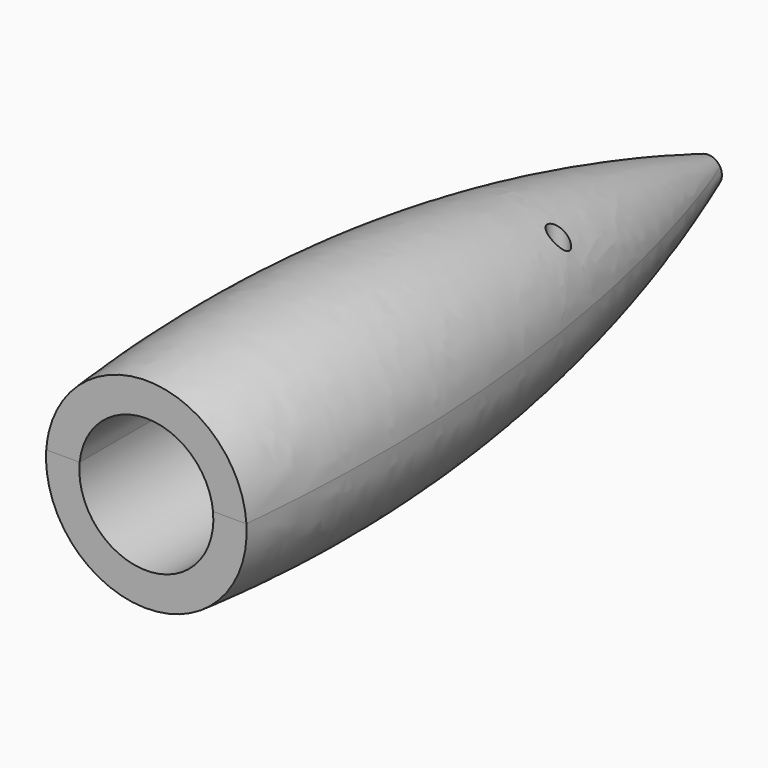
from build123d import *

# Parameters (mm, degrees)
PAD010_DEPTH      = 10
POCKET_DEPTH      = 10.001
SKETCH006_R       = 3.009992
PAD002_DEPTH      = 100
PAD_DEPTH         = 10
SKETCH014_R       = 20.0437
PAD009_DEPTH      = 100
FUSION_ROLL_ANGLE = 90
SKETCH011_R       = 5
PAD007_DEPTH      = 50
SKETCH010_R       = 5
PAD006_DEPTH      = 50
SKETCH008_R       = 13
PAD004_DEPTH      = 15
SKETCH009_R       = 9
PAD005_DEPTH      = 15
SKETCH013_R       = 6
PAD008_DEPTH      = 26
BOX_W             = 50
BOX_H             = 240
BOX_DEPTH         = 100
BOX_PITCH_ANGLE   = -90
SKETCH_R          = 4.120219
SKETCH001_R       = 27
SKETCH002_R       = 30
SKETCH015_R       = 1.5
POCKET001_DEPTH   = 10
SKETCH018_R       = 3
PAD012_DEPTH      = 20
SKETCH016_R       = 1.5
POCKET002_DEPTH   = 653.497334
SKETCH017_R       = 3
PAD011_DEPTH      = 20


with BuildPart() as obj1:
    # InvoluteGear001 → Pad010 (new body)
    with BuildSketch(Plane(origin=(16, 0, 0), x_dir=(1, 0, 0), z_dir=(0, -1, 0))):
        with BuildLine():
            Line((3.786059, -0.923719), (4.81556, -1.173313))
            add(Edge.make_bspline(
                [(4.81556, -1.173313), (4.873385, -1.181675), (5.046346, -1.195856), (5.34323, -1.127243)],
                knots=[0, 0, 0, 0, 1, 1, 1, 1], degree=3))
            add(Edge.make_bspline(
                [(5.34323, -1.127243), (5.693315, -1.042189), (6.183331, -0.841463), (6.742255, -0.380782)],
                knots=[0, 0, 0, 0, 1, 1, 1, 1], degree=3))
            ThreePointArc((6.742255, -0.380782), (6.753004, 0), (6.742255, 0.380782))
            add(Edge.make_bspline(
                [(6.742255, 0.380782), (6.183331, 0.841463), (5.693315, 1.042189), (5.34323, 1.127243)],
                knots=[0, 0, 0, 0, 1, 1, 1, 1], degree=3))
            add(Edge.make_bspline(
                [(5.34323, 1.127243), (5.046346, 1.195856), (4.873385, 1.181675), (4.81556, 1.173313)],
                knots=[0, 0, 0, 0, 1, 1, 1, 1], degree=3))
            Line((4.81556, 1.173313), (3.786059, 0.923719))
            ThreePointArc((3.786059, 0.923719), (3.397937, 0.968687), (3.132738, 1.25562))
            ThreePointArc((3.132738, 1.25562), (3.04077, 1.464358), (2.934913, 1.666407))
            ThreePointArc((2.934913, 1.666407), (2.875929, 2.052647), (3.082762, 2.384131))
            Line((3.082762, 2.384131), (3.919786, 3.033407))
            add(Edge.make_bspline(
                [(3.919786, 3.033407), (3.962376, 3.073404), (4.081304, 3.199788), (4.212764, 3.474681)],
                knots=[0, 0, 0, 0, 1, 1, 1, 1], degree=3))
            add(Edge.make_bspline(
                [(4.212764, 3.474681), (4.364539, 3.801419), (4.513126, 4.309679), (4.501435, 5.033894)],
                knots=[0, 0, 0, 0, 1, 1, 1, 1], degree=3))
            ThreePointArc((4.501435, 5.033894), (4.210429, 5.279711), (3.90602, 5.508721))
            add(Edge.make_bspline(
                [(3.90602, 5.508721), (3.197362, 5.358966), (2.734908, 5.101007), (2.450135, 4.88033)],
                knots=[0, 0, 0, 0, 1, 1, 1, 1], degree=3))
            add(Edge.make_bspline(
                [(2.450135, 4.88033), (2.211387, 4.690996), (2.114635, 4.546928), (2.085119, 4.496505)],
                knots=[0, 0, 0, 0, 1, 1, 1, 1], degree=3))
            Line((2.085119, 4.496505), (1.638377, 3.53599))
            ThreePointArc((1.638377, 3.53599), (1.361229, 3.260581), (0.971547, 3.232139))
            ThreePointArc((0.971547, 3.232139), (0.751008, 3.290382), (0.527039, 3.333595))
            ThreePointArc((0.527039, 3.333595), (0.188288, 3.528297), (0.058082, 3.896681))
            Line((0.058082, 3.896681), (0.072333, 4.95591))
            add(Edge.make_bspline(
                [(0.072333, 4.95591), (0.067617, 5.014146), (0.042956, 5.185927), (-0.09, 5.460099)],
                knots=[0, 0, 0, 0, 1, 1, 1, 1], degree=3))
            add(Edge.make_bspline(
                [(-0.09, 5.460099), (-0.250823, 5.78248), (-0.555555, 6.215545), (-1.129058, 6.657945)],
                knots=[0, 0, 0, 0, 1, 1, 1, 1], degree=3))
            ThreePointArc((-1.129058, 6.657945), (-1.502685, 6.583692), (-1.871528, 6.488481))
            add(Edge.make_bspline(
                [(-1.871528, 6.488481), (-2.196286, 5.841059), (-2.28294, 5.318663), (-2.287961, 4.958429)],
                knots=[0, 0, 0, 0, 1, 1, 1, 1], degree=3))
            add(Edge.make_bspline(
                [(-2.287961, 4.958429), (-2.288791, 4.65372), (-2.236478, 4.488252), (-2.215459, 4.433737)],
                knots=[0, 0, 0, 0, 1, 1, 1, 1], degree=3))
            Line((-2.215459, 4.433737), (-1.743037, 3.485588))
            ThreePointArc((-1.743037, 3.485588), (-1.700512, 3.09719), (-1.921238, 2.774792))
            ThreePointArc((-1.921238, 2.774792), (-2.104278, 2.638681), (-2.277706, 2.490518))
            ThreePointArc((-2.277706, 2.490518), (-2.641138, 2.347067), (-3.010335, 2.474951))
            Line((-3.010335, 2.474951), (-3.829588, 3.146512))
            add(Edge.make_bspline(
                [(-3.829588, 3.146512), (-3.878059, 3.179135), (-4.027738, 3.266957), (-4.324991, 3.333952)],
                knots=[0, 0, 0, 0, 1, 1, 1, 1], degree=3))
            add(Edge.make_bspline(
                [(-4.324991, 3.333952), (-4.677311, 3.409216), (-5.205892, 3.440979), (-5.909347, 3.268428)],
                knots=[0, 0, 0, 0, 1, 1, 1, 1], degree=3))
            ThreePointArc((-5.909347, 3.268428), (-6.084247, 2.930019), (-6.239777, 2.582282))
            add(Edge.make_bspline(
                [(-6.239777, 2.582282), (-5.936086, 1.924715), (-5.581688, 1.531257), (-5.303176, 1.30273)],
                knots=[0, 0, 0, 0, 1, 1, 1, 1], degree=3))
            add(Edge.make_bspline(
                [(-5.303176, 1.30273), (-5.065463, 1.112098), (-4.903478, 1.04983), (-4.847751, 1.032274)],
                knots=[0, 0, 0, 0, 1, 1, 1, 1], degree=3))
            Line((-4.847751, 1.032274), (-3.811908, 0.810467))
            ThreePointArc((-3.811908, 0.810467), (-3.481733, 0.601552), (-3.367292, 0.22797))
            ThreePointArc((-3.367292, 0.22797), (-3.375, 0), (-3.367292, -0.22797))
            ThreePointArc((-3.367292, -0.22797), (-3.481733, -0.601552), (-3.811908, -0.810467))
            Line((-3.811908, -0.810467), (-4.847751, -1.032274))
            add(Edge.make_bspline(
                [(-4.847751, -1.032274), (-4.903478, -1.04983), (-5.065463, -1.112098), (-5.303176, -1.30273)],
                knots=[0, 0, 0, 0, 1, 1, 1, 1], degree=3))
            add(Edge.make_bspline(
                [(-5.303176, -1.30273), (-5.581688, -1.531257), (-5.936086, -1.924715), (-6.239777, -2.582282)],
                knots=[0, 0, 0, 0, 1, 1, 1, 1], degree=3))
            ThreePointArc((-6.239777, -2.582282), (-6.084247, -2.930019), (-5.909347, -3.268428))
            add(Edge.make_bspline(
                [(-5.909347, -3.268428), (-5.205892, -3.440979), (-4.677311, -3.409216), (-4.324991, -3.333952)],
                knots=[0, 0, 0, 0, 1, 1, 1, 1], degree=3))
            add(Edge.make_bspline(
                [(-4.324991, -3.333952), (-4.027738, -3.266957), (-3.878059, -3.179135), (-3.829588, -3.146512)],
                knots=[0, 0, 0, 0, 1, 1, 1, 1], degree=3))
            Line((-3.829588, -3.146512), (-3.010335, -2.474951))
            ThreePointArc((-3.010335, -2.474951), (-2.641138, -2.347067), (-2.277706, -2.490518))
            ThreePointArc((-2.277706, -2.490518), (-2.104278, -2.638681), (-1.921238, -2.774792))
            ThreePointArc((-1.921238, -2.774792), (-1.700512, -3.09719), (-1.743037, -3.485588))
            Line((-1.743037, -3.485588), (-2.215459, -4.433737))
            add(Edge.make_bspline(
                [(-2.215459, -4.433737), (-2.236478, -4.488252), (-2.288791, -4.65372), (-2.287961, -4.958429)],
                knots=[0, 0, 0, 0, 1, 1, 1, 1], degree=3))
            add(Edge.make_bspline(
                [(-2.287961, -4.958429), (-2.28294, -5.318663), (-2.196286, -5.841059), (-1.871528, -6.488481)],
                knots=[0, 0, 0, 0, 1, 1, 1, 1], degree=3))
            ThreePointArc((-1.871528, -6.488481), (-1.502685, -6.583692), (-1.129058, -6.657945))
            add(Edge.make_bspline(
                [(-1.129058, -6.657945), (-0.555555, -6.215545), (-0.250823, -5.78248), (-0.09, -5.460099)],
                knots=[0, 0, 0, 0, 1, 1, 1, 1], degree=3))
            add(Edge.make_bspline(
                [(-0.09, -5.460099), (0.042956, -5.185927), (0.067617, -5.014146), (0.072333, -4.95591)],
                knots=[0, 0, 0, 0, 1, 1, 1, 1], degree=3))
            Line((0.072333, -4.95591), (0.058082, -3.896681))
            ThreePointArc((0.058082, -3.896681), (0.188288, -3.528297), (0.527039, -3.333595))
            ThreePointArc((0.527039, -3.333595), (0.751008, -3.290382), (0.971547, -3.232139))
            ThreePointArc((0.971547, -3.232139), (1.361229, -3.260581), (1.638377, -3.53599))
            Line((1.638377, -3.53599), (2.085119, -4.496505))
            add(Edge.make_bspline(
                [(2.085119, -4.496505), (2.114635, -4.546928), (2.211387, -4.690996), (2.450135, -4.88033)],
                knots=[0, 0, 0, 0, 1, 1, 1, 1], degree=3))
            add(Edge.make_bspline(
                [(2.450135, -4.88033), (2.734908, -5.101007), (3.197362, -5.358966), (3.90602, -5.508721)],
                knots=[0, 0, 0, 0, 1, 1, 1, 1], degree=3))
            ThreePointArc((3.90602, -5.508721), (4.210429, -5.279711), (4.501435, -5.033894))
            add(Edge.make_bspline(
                [(4.501435, -5.033894), (4.513126, -4.309679), (4.364539, -3.801419), (4.212764, -3.474681)],
                knots=[0, 0, 0, 0, 1, 1, 1, 1], degree=3))
            add(Edge.make_bspline(
                [(4.212764, -3.474681), (4.081304, -3.199788), (3.962376, -3.073404), (3.919786, -3.033407)],
                knots=[0, 0, 0, 0, 1, 1, 1, 1], degree=3))
            Line((3.919786, -3.033407), (3.082762, -2.384131))
            ThreePointArc((3.082762, -2.384131), (2.875929, -2.052647), (2.934913, -1.666407))
            ThreePointArc((2.934913, -1.666407), (3.04077, -1.464358), (3.132738, -1.25562))
            ThreePointArc((3.132738, -1.25562), (3.397937, -0.968687), (3.786059, -0.923719))
        make_face()
    extrude(amount=PAD010_DEPTH)

    # Sketch012 → Pocket (cut, through all)
    with BuildSketch(Plane(origin=(16, -10, 0), x_dir=(1, 0, 0), z_dir=(0, -1, 0))):
        with BuildLine():
            ThreePointArc((1.075668, -1.045437), (0.009602, 1.50979), (-1.056464, -1.045437))
            Line((-1.056464, -1.045437), (1.075668, -1.045437))
        make_face()
    extrude(amount=-POCKET_DEPTH, mode=Mode.SUBTRACT)


with BuildPart() as pad002:
    # Sketch006 → Pad002 (new body, symmetric)
    with BuildSketch(Plane(origin=(0, 0, 0), x_dir=(1, 0, 0), z_dir=(0, 0, -1))):
        Circle(SKETCH006_R)
    extrude(amount=PAD002_DEPTH, both=True)


with BuildPart() as pad:
    # InvoluteGear → Pad (new body)
    with BuildSketch(Plane.XY):
        with BuildLine():
            Line((8.355513, -1.029758), (9.548181, -1.175965))
            add(Edge.make_bspline(
                [(9.548181, -1.175965), (9.5967, -1.178924), (9.742908, -1.18188), (9.988316, -1.135943)],
                knots=[0, 0, 0, 0, 1, 1, 1, 1], degree=3))
            add(Edge.make_bspline(
                [(9.988316, -1.135943), (10.281884, -1.080014), (10.705563, -0.954393), (11.230767, -0.676657)],
                knots=[0, 0, 0, 0, 1, 1, 1, 1], degree=3))
            ThreePointArc((11.230767, -0.676657), (11.251135, 0), (11.230767, 0.676657))
            add(Edge.make_bspline(
                [(11.230767, 0.676657), (10.705563, 0.954393), (10.281884, 1.080014), (9.988316, 1.135943)],
                knots=[0, 0, 0, 0, 1, 1, 1, 1], degree=3))
            add(Edge.make_bspline(
                [(9.988316, 1.135943), (9.742908, 1.18188), (9.5967, 1.178924), (9.548181, 1.175965)],
                knots=[0, 0, 0, 0, 1, 1, 1, 1], degree=3))
            Line((9.548181, 1.175965), (8.355513, 1.029758))
            ThreePointArc((8.355513, 1.029758), (7.956052, 1.132981), (7.734481, 1.48102))
            ThreePointArc((7.734481, 1.48102), (7.646167, 1.884611), (7.536808, 2.283014))
            ThreePointArc((7.536808, 2.283014), (7.571257, 2.694156), (7.876992, 2.971196))
            Line((7.876992, 2.971196), (9.000992, 3.395996))
            add(Edge.make_bspline(
                [(9.000992, 3.395996), (9.04533, 3.415923), (9.176163, 3.481252), (9.372113, 3.635975)],
                knots=[0, 0, 0, 0, 1, 1, 1, 1], degree=3))
            add(Edge.make_bspline(
                [(9.372113, 3.635975), (9.606064, 3.821924), (9.922834, 4.130051), (10.258808, 4.620047)],
                knots=[0, 0, 0, 0, 1, 1, 1, 1], degree=3))
            ThreePointArc((10.258808, 4.620047), (9.962385, 5.228663), (9.629892, 5.818348))
            add(Edge.make_bspline(
                [(9.629892, 5.818348), (9.035777, 5.820196), (8.602248, 5.734535), (8.316315, 5.647629)],
                knots=[0, 0, 0, 0, 1, 1, 1, 1], degree=3))
            add(Edge.make_bspline(
                [(8.316315, 5.647629), (8.077669, 5.574257), (7.949583, 5.503695), (7.907996, 5.478526)],
                knots=[0, 0, 0, 0, 1, 1, 1, 1], degree=3))
            Line((7.907996, 5.478526), (6.919887, 4.794806))
            ThreePointArc((6.919887, 4.794806), (6.518211, 4.700567), (6.160279, 4.905771))
            ThreePointArc((6.160279, 4.905771), (5.894522, 5.222091), (5.612542, 5.524038))
            ThreePointArc((5.612542, 5.524038), (5.451978, 5.904095), (5.593946, 6.291484))
            Line((5.593946, 6.291484), (6.391785, 7.189975))
            add(Edge.make_bspline(
                [(6.391785, 7.189975), (6.421783, 7.228224), (6.50727, 7.346872), (6.608872, 7.574934)],
                knots=[0, 0, 0, 0, 1, 1, 1, 1], degree=3))
            add(Edge.make_bspline(
                [(6.608872, 7.574934), (6.72961, 7.848306), (6.866903, 8.268349), (6.936681, 8.858355)],
                knots=[0, 0, 0, 0, 1, 1, 1, 1], degree=3))
            ThreePointArc((6.936681, 8.858355), (6.391373, 9.259502), (5.822925, 9.627125))
            add(Edge.make_bspline(
                [(5.822925, 9.627125), (5.296003, 9.352662), (4.951941, 9.075343), (4.739148, 8.865511)],
                knots=[0, 0, 0, 0, 1, 1, 1, 1], degree=3))
            add(Edge.make_bspline(
                [(4.739148, 8.865511), (4.561934, 8.68964), (4.481311, 8.567635), (4.456185, 8.526023)],
                knots=[0, 0, 0, 0, 1, 1, 1, 1], degree=3))
            Line((4.456185, 8.526023), (3.898999, 7.461421))
            ThreePointArc((3.898999, 7.461421), (3.587127, 7.191309), (3.17483, 7.206669))
            ThreePointArc((3.17483, 7.206669), (2.792513, 7.363253), (2.402511, 7.499571))
            ThreePointArc((2.402511, 7.499571), (2.083717, 7.761477), (2.029395, 8.170468))
            Line((2.029395, 8.170468), (2.318297, 9.336817))
            add(Edge.make_bspline(
                [(2.318297, 9.336817), (2.327083, 9.384626), (2.34764, 9.529411), (2.331619, 9.778567)],
                knots=[0, 0, 0, 0, 1, 1, 1, 1], degree=3))
            add(Edge.make_bspline(
                [(2.331619, 9.778567), (2.311484, 10.076736), (2.237847, 10.512468), (2.025443, 11.06732)],
                knots=[0, 0, 0, 0, 1, 1, 1, 1], degree=3))
            ThreePointArc((2.025443, 11.06732), (1.356174, 11.169101), (0.681996, 11.230444))
            add(Edge.make_bspline(
                [(0.681996, 11.230444), (0.342979, 10.742547), (0.167204, 10.337099), (0.076298, 10.052412)],
                knots=[0, 0, 0, 0, 1, 1, 1, 1], degree=3))
            add(Edge.make_bspline(
                [(0.076298, 10.052412), (0.001115, 9.814331), (-0.013574, 9.668833), (-0.016485, 9.620311)],
                knots=[0, 0, 0, 0, 1, 1, 1, 1], degree=3))
            Line((-0.016485, 9.620311), (-0.015104, 8.418716))
            ThreePointArc((-0.015104, 8.418716), (-0.165725, 8.034609), (-0.537933, 7.856606))
            ThreePointArc((-0.537933, 7.856606), (-0.949226, 7.817582), (-1.357907, 7.757043))
            ThreePointArc((-1.357907, 7.757043), (-1.761899, 7.840798), (-2.000066, 8.177698))
            Line((-2.000066, 8.177698), (-2.286285, 9.344707))
            add(Edge.make_bspline(
                [(-2.286285, 9.344707), (-2.300723, 9.391123), (-2.349806, 9.528877), (-2.479781, 9.742048)],
                knots=[0, 0, 0, 0, 1, 1, 1, 1], degree=3))
            add(Edge.make_bspline(
                [(-2.479781, 9.742048), (-2.636175, 9.996707), (-2.903872, 10.348308), (-3.349799, 10.740895)],
                knots=[0, 0, 0, 0, 1, 1, 1, 1], degree=3))
            ThreePointArc((-3.349799, 10.740895), (-3.989707, 10.519994), (-4.61517, 10.261003))
            add(Edge.make_bspline(
                [(-4.61517, 10.261003), (-4.688617, 9.671443), (-4.655837, 9.23075), (-4.60403, 8.936427)],
                knots=[0, 0, 0, 0, 1, 1, 1, 1], degree=3))
            add(Edge.make_bspline(
                [(-4.60403, 8.936427), (-4.559959, 8.690677), (-4.50535, 8.555018), (-4.485378, 8.510701)],
                knots=[0, 0, 0, 0, 1, 1, 1, 1], degree=3))
            Line((-4.485378, 8.510701), (-3.925746, 7.447383))
            ThreePointArc((-3.925746, 7.447383), (-3.880611, 7.037277), (-4.127463, 6.706689))
            ThreePointArc((-4.127463, 6.706689), (-4.47351, 6.480998), (-4.807244, 6.23747))
            ThreePointArc((-4.807244, 6.23747), (-5.203885, 6.123887), (-5.571336, 6.311515))
            Line((-5.571336, 6.311515), (-6.367107, 7.211837))
            add(Edge.make_bspline(
                [(-6.367107, 7.211837), (-6.401462, 7.246227), (-6.50894, 7.345392), (-6.723092, 7.473744)],
                knots=[0, 0, 0, 0, 1, 1, 1, 1], degree=3))
            add(Edge.make_bspline(
                [(-6.723092, 7.473744), (-6.979918, 7.626553), (-7.38035, 7.813474), (-7.957643, 7.953861)],
                knots=[0, 0, 0, 0, 1, 1, 1, 1], degree=3))
            ThreePointArc((-7.957643, 7.953861), (-8.421595, 7.460882), (-8.855056, 6.940891))
            add(Edge.make_bspline(
                [(-8.855056, 6.940891), (-8.646108, 6.384728), (-8.412283, 6.009748), (-8.229631, 5.773213)],
                knots=[0, 0, 0, 0, 1, 1, 1, 1], degree=3))
            add(Edge.make_bspline(
                [(-8.229631, 5.773213), (-8.076402, 5.576093), (-7.965005, 5.481352), (-7.926725, 5.451393)],
                knots=[0, 0, 0, 0, 1, 1, 1, 1], degree=3))
            Line((-7.926725, 5.451393), (-6.937047, 4.769945))
            ThreePointArc((-6.937047, 4.769945), (-6.706496, 4.427789), (-6.771441, 4.02035))
            ThreePointArc((-6.771441, 4.02035), (-6.972966, 3.659695), (-7.1553, 3.288967))
            ThreePointArc((-7.1553, 3.288967), (-7.453723, 3.004067), (-7.86628, 2.99944))
            Line((-7.86628, 2.99944), (-8.989301, 3.426823))
            add(Edge.make_bspline(
                [(-8.989301, 3.426823), (-9.035703, 3.441308), (-9.176954, 3.479167), (-9.426224, 3.493294)],
                knots=[0, 0, 0, 0, 1, 1, 1, 1], degree=3))
            add(Edge.make_bspline(
                [(-9.426224, 3.493294), (-9.724647, 3.509247), (-10.166078, 3.488669), (-10.742486, 3.344693)],
                knots=[0, 0, 0, 0, 1, 1, 1, 1], degree=3))
            ThreePointArc((-10.742486, 3.344693), (-10.924197, 2.692573), (-11.066356, 2.030704))
            add(Edge.make_bspline(
                [(-11.066356, 2.030704), (-10.62288, 1.635349), (-10.241575, 1.411985), (-9.969922, 1.287426)],
                knots=[0, 0, 0, 0, 1, 1, 1, 1], degree=3))
            add(Edge.make_bspline(
                [(-9.969922, 1.287426), (-9.742639, 1.184094), (-9.599973, 1.151974), (-9.552155, 1.143236)],
                knots=[0, 0, 0, 0, 1, 1, 1, 1], degree=3))
            Line((-9.552155, 1.143236), (-8.359154, 0.99977))
            ThreePointArc((-8.359154, 0.99977), (-7.996004, 0.803949), (-7.864163, 0.412998))
            ThreePointArc((-7.864163, 0.412998), (-7.875, 0), (-7.864163, -0.412998))
            ThreePointArc((-7.864163, -0.412998), (-7.996004, -0.803949), (-8.359154, -0.99977))
            Line((-8.359154, -0.99977), (-9.552155, -1.143236))
            add(Edge.make_bspline(
                [(-9.552155, -1.143236), (-9.599973, -1.151974), (-9.742639, -1.184094), (-9.969922, -1.287426)],
                knots=[0, 0, 0, 0, 1, 1, 1, 1], degree=3))
            add(Edge.make_bspline(
                [(-9.969922, -1.287426), (-10.241575, -1.411985), (-10.62288, -1.635349), (-11.066356, -2.030704)],
                knots=[0, 0, 0, 0, 1, 1, 1, 1], degree=3))
            ThreePointArc((-11.066356, -2.030704), (-10.924197, -2.692573), (-10.742486, -3.344693))
            add(Edge.make_bspline(
                [(-10.742486, -3.344693), (-10.166078, -3.488669), (-9.724647, -3.509247), (-9.426224, -3.493294)],
                knots=[0, 0, 0, 0, 1, 1, 1, 1], degree=3))
            add(Edge.make_bspline(
                [(-9.426224, -3.493294), (-9.176954, -3.479167), (-9.035703, -3.441308), (-8.989301, -3.426823)],
                knots=[0, 0, 0, 0, 1, 1, 1, 1], degree=3))
            Line((-8.989301, -3.426823), (-7.86628, -2.99944))
            ThreePointArc((-7.86628, -2.99944), (-7.453723, -3.004067), (-7.1553, -3.288967))
            ThreePointArc((-7.1553, -3.288967), (-6.972966, -3.659695), (-6.771441, -4.02035))
            ThreePointArc((-6.771441, -4.02035), (-6.706496, -4.427789), (-6.937047, -4.769945))
            Line((-6.937047, -4.769945), (-7.926725, -5.451393))
            add(Edge.make_bspline(
                [(-7.926725, -5.451393), (-7.965005, -5.481352), (-8.076402, -5.576093), (-8.229631, -5.773213)],
                knots=[0, 0, 0, 0, 1, 1, 1, 1], degree=3))
            add(Edge.make_bspline(
                [(-8.229631, -5.773213), (-8.412283, -6.009748), (-8.646108, -6.384728), (-8.855056, -6.940891)],
                knots=[0, 0, 0, 0, 1, 1, 1, 1], degree=3))
            ThreePointArc((-8.855056, -6.940891), (-8.421595, -7.460882), (-7.957643, -7.953861))
            add(Edge.make_bspline(
                [(-7.957643, -7.953861), (-7.38035, -7.813474), (-6.979918, -7.626553), (-6.723092, -7.473744)],
                knots=[0, 0, 0, 0, 1, 1, 1, 1], degree=3))
            add(Edge.make_bspline(
                [(-6.723092, -7.473744), (-6.50894, -7.345392), (-6.401462, -7.246227), (-6.367107, -7.211837)],
                knots=[0, 0, 0, 0, 1, 1, 1, 1], degree=3))
            Line((-6.367107, -7.211837), (-5.571336, -6.311515))
            ThreePointArc((-5.571336, -6.311515), (-5.203885, -6.123887), (-4.807244, -6.23747))
            ThreePointArc((-4.807244, -6.23747), (-4.47351, -6.480998), (-4.127463, -6.706689))
            ThreePointArc((-4.127463, -6.706689), (-3.880611, -7.037277), (-3.925746, -7.447383))
            Line((-3.925746, -7.447383), (-4.485378, -8.510701))
            add(Edge.make_bspline(
                [(-4.485378, -8.510701), (-4.50535, -8.555018), (-4.559959, -8.690677), (-4.60403, -8.936427)],
                knots=[0, 0, 0, 0, 1, 1, 1, 1], degree=3))
            add(Edge.make_bspline(
                [(-4.60403, -8.936427), (-4.655837, -9.23075), (-4.688617, -9.671443), (-4.61517, -10.261003)],
                knots=[0, 0, 0, 0, 1, 1, 1, 1], degree=3))
            ThreePointArc((-4.61517, -10.261003), (-3.989707, -10.519994), (-3.349799, -10.740895))
            add(Edge.make_bspline(
                [(-3.349799, -10.740895), (-2.903872, -10.348308), (-2.636175, -9.996707), (-2.479781, -9.742048)],
                knots=[0, 0, 0, 0, 1, 1, 1, 1], degree=3))
            add(Edge.make_bspline(
                [(-2.479781, -9.742048), (-2.349806, -9.528877), (-2.300723, -9.391123), (-2.286285, -9.344707)],
                knots=[0, 0, 0, 0, 1, 1, 1, 1], degree=3))
            Line((-2.286285, -9.344707), (-2.000066, -8.177698))
            ThreePointArc((-2.000066, -8.177698), (-1.761899, -7.840798), (-1.357907, -7.757043))
            ThreePointArc((-1.357907, -7.757043), (-0.949226, -7.817582), (-0.537933, -7.856606))
            ThreePointArc((-0.537933, -7.856606), (-0.165725, -8.034609), (-0.015104, -8.418716))
            Line((-0.015104, -8.418716), (-0.016485, -9.620311))
            add(Edge.make_bspline(
                [(-0.016485, -9.620311), (-0.013574, -9.668833), (0.001115, -9.814331), (0.076298, -10.052412)],
                knots=[0, 0, 0, 0, 1, 1, 1, 1], degree=3))
            add(Edge.make_bspline(
                [(0.076298, -10.052412), (0.167204, -10.337099), (0.342979, -10.742547), (0.681996, -11.230444)],
                knots=[0, 0, 0, 0, 1, 1, 1, 1], degree=3))
            ThreePointArc((0.681996, -11.230444), (1.356174, -11.169101), (2.025443, -11.06732))
            add(Edge.make_bspline(
                [(2.025443, -11.06732), (2.237847, -10.512468), (2.311484, -10.076736), (2.331619, -9.778567)],
                knots=[0, 0, 0, 0, 1, 1, 1, 1], degree=3))
            add(Edge.make_bspline(
                [(2.331619, -9.778567), (2.34764, -9.529411), (2.327083, -9.384626), (2.318297, -9.336817)],
                knots=[0, 0, 0, 0, 1, 1, 1, 1], degree=3))
            Line((2.318297, -9.336817), (2.029395, -8.170468))
            ThreePointArc((2.029395, -8.170468), (2.083717, -7.761477), (2.402511, -7.499571))
            ThreePointArc((2.402511, -7.499571), (2.792513, -7.363253), (3.17483, -7.206669))
            ThreePointArc((3.17483, -7.206669), (3.587127, -7.191309), (3.898999, -7.461421))
            Line((3.898999, -7.461421), (4.456185, -8.526023))
            add(Edge.make_bspline(
                [(4.456185, -8.526023), (4.481311, -8.567635), (4.561934, -8.68964), (4.739148, -8.865511)],
                knots=[0, 0, 0, 0, 1, 1, 1, 1], degree=3))
            add(Edge.make_bspline(
                [(4.739148, -8.865511), (4.951941, -9.075343), (5.296003, -9.352662), (5.822925, -9.627125)],
                knots=[0, 0, 0, 0, 1, 1, 1, 1], degree=3))
            ThreePointArc((5.822925, -9.627125), (6.391373, -9.259502), (6.936681, -8.858355))
            add(Edge.make_bspline(
                [(6.936681, -8.858355), (6.866903, -8.268349), (6.72961, -7.848306), (6.608872, -7.574934)],
                knots=[0, 0, 0, 0, 1, 1, 1, 1], degree=3))
            add(Edge.make_bspline(
                [(6.608872, -7.574934), (6.50727, -7.346872), (6.421783, -7.228224), (6.391785, -7.189975)],
                knots=[0, 0, 0, 0, 1, 1, 1, 1], degree=3))
            Line((6.391785, -7.189975), (5.593946, -6.291484))
            ThreePointArc((5.593946, -6.291484), (5.451978, -5.904095), (5.612542, -5.524038))
            ThreePointArc((5.612542, -5.524038), (5.894522, -5.222091), (6.160279, -4.905771))
            ThreePointArc((6.160279, -4.905771), (6.518211, -4.700567), (6.919887, -4.794806))
            Line((6.919887, -4.794806), (7.907996, -5.478526))
            add(Edge.make_bspline(
                [(7.907996, -5.478526), (7.949583, -5.503695), (8.077669, -5.574257), (8.316315, -5.647629)],
                knots=[0, 0, 0, 0, 1, 1, 1, 1], degree=3))
            add(Edge.make_bspline(
                [(8.316315, -5.647629), (8.602248, -5.734535), (9.035777, -5.820196), (9.629892, -5.818348)],
                knots=[0, 0, 0, 0, 1, 1, 1, 1], degree=3))
            ThreePointArc((9.629892, -5.818348), (9.962385, -5.228663), (10.258808, -4.620047))
            add(Edge.make_bspline(
                [(10.258808, -4.620047), (9.922834, -4.130051), (9.606064, -3.821924), (9.372113, -3.635975)],
                knots=[0, 0, 0, 0, 1, 1, 1, 1], degree=3))
            add(Edge.make_bspline(
                [(9.372113, -3.635975), (9.176163, -3.481252), (9.04533, -3.415923), (9.000992, -3.395996)],
                knots=[0, 0, 0, 0, 1, 1, 1, 1], degree=3))
            Line((9.000992, -3.395996), (7.876992, -2.971196))
            ThreePointArc((7.876992, -2.971196), (7.571257, -2.694156), (7.536808, -2.283014))
            ThreePointArc((7.536808, -2.283014), (7.646167, -1.884611), (7.734481, -1.48102))
            ThreePointArc((7.734481, -1.48102), (7.956052, -1.132981), (8.355513, -1.029758))
        make_face()
    extrude(amount=PAD_DEPTH)


with BuildPart() as obj2:
    # Cut008 base: copy of Pad
    add(pad.part)

    # Cut008: cut Pad002
    add(pad002.part, mode=Mode.SUBTRACT)


with BuildPart() as buco:
    # Sketch014 → Pad009 (new body)
    with BuildSketch(Plane.XZ.offset(40)):
        Circle(SKETCH014_R)
    extrude(amount=PAD009_DEPTH)


with BuildPart() as ingranaggio_senza_buco:
    # Fusion base: copy of Pad002
    add(pad002.part)

    # Fusion: union Pad
    add(pad.part)


with BuildPart() as ingranaggio_senza_buco_1:
    # Fusion roll: moved
    add(ingranaggio_senza_buco.part.rotate(Axis((0, 0, 0), (1, 0, 0)), FUSION_ROLL_ANGLE))


with BuildPart() as ingranaggio_senza_buco_2:
    # Fusion placement: moved
    add(ingranaggio_senza_buco_1.part)

    # Cut005: cut buco
    add(buco.part, mode=Mode.SUBTRACT)


with BuildPart() as pad007:
    # Sketch011 → Pad007 (new body)
    with BuildSketch(Plane.XZ.offset(-75)):
        Circle(SKETCH011_R)
    extrude(amount=PAD007_DEPTH)


with BuildPart() as scassi_perno:
    # Sketch010 → Pad006 (new body)
    with BuildSketch(Plane.XZ.offset(25)):
        Circle(SKETCH010_R)
    extrude(amount=PAD006_DEPTH)

    # Fusion002: union Pad007
    add(pad007.part)


with BuildPart() as scasso_ruota_dentata:
    # Sketch008 → Pad004 (new body)
    with BuildSketch(Plane.XZ.offset(-3)):
        Circle(SKETCH008_R)
    extrude(amount=PAD004_DEPTH)


with BuildPart() as obj3:
    # Sketch009 → Pad005 (new body)
    with BuildSketch(Plane.XZ.offset(-3)):
        with Locations((15.997087, 9e-06)):
            Circle(SKETCH009_R)
    extrude(amount=PAD005_DEPTH)

    # Fusion001: union scasso_ruota_dentata
    add(scasso_ruota_dentata.part)


with BuildPart() as scassi_tutti:
    # Sketch013 → Pad008 (new body)
    with BuildSketch(Plane.XZ.offset(11)):
        with Locations((16.059561, 9e-06)):
            Circle(SKETCH013_R)
    extrude(amount=PAD008_DEPTH)

    # Fusion005: union scassi_perno, obj3
    add(scassi_perno.part)
    add(obj3.part)


with BuildPart() as cubo:
    # Box → Box (new body)
    with BuildSketch(Plane.XY):
        with Locations((25, 120)):
            Rectangle(BOX_W, BOX_H)
    extrude(amount=BOX_DEPTH)


with BuildPart() as cubo_1:
    # Box pitch: moved
    add(cubo.part.rotate(Axis((0, 0, 0), (0, 1, 0)), BOX_PITCH_ANGLE))


with BuildPart() as cubo_2:
    # Box placement: moved
    add(cubo_1.part.moved(Location((50, -140, 2))))


with BuildPart() as obj4:
    # Sketch → Loft section 0
    with BuildSketch(Plane.XZ.offset(-90)):
        Circle(SKETCH_R)
    # Sketch001 → Loft section 1
    with BuildSketch(Plane.XZ):
        Circle(SKETCH001_R)
    # Sketch002 → Loft section 2
    with BuildSketch(Plane.XZ.offset(120)):
        Circle(SKETCH002_R)
    loft()


with BuildPart() as obj5:
    # Cut base: copy of obj4
    add(obj4.part)

    # Cut: cut Cubo
    add(cubo_2.part, mode=Mode.SUBTRACT)

    # Cut001: cut scassi_tutti
    add(scassi_tutti.part, mode=Mode.SUBTRACT)

    # Cut003: cut buco
    add(buco.part, mode=Mode.SUBTRACT)

    # Cut006: cut ingranaggio_senza_buco
    add(ingranaggio_senza_buco_2.part, mode=Mode.SUBTRACT)

    # Sketch015 → Pocket001 (cut)
    with BuildSketch(Plane(origin=(0, 90, 0), x_dir=(-1, 0, 0), z_dir=(0, 1, 0))):
        with Locations((-16, 14)):
            Circle(SKETCH015_R)
    pocket001 = extrude(amount=-POCKET001_DEPTH, mode=Mode.SUBTRACT)

    # Mirrored: Pocket001 across Sketch015 V_Axis
    add(pocket001.mirror(Plane(origin=(0, 90, 0), x_dir=(0, 1, 0), z_dir=(-1, 0, 0))), mode=Mode.SUBTRACT)


with BuildPart() as pad012:
    # Sketch018 → Pad012 (new body)
    with BuildSketch(Plane.XY.offset(5)):
        with Locations((-16, 14)):
            Circle(SKETCH018_R)
    extrude(amount=PAD012_DEPTH)


with BuildPart() as mirrored001:
    # Common base: copy of obj4
    add(obj4.part)

    # Common: intersect Cubo
    add(cubo_2.part, mode=Mode.INTERSECT)

    # Cut002: cut scassi_tutti
    add(scassi_tutti.part, mode=Mode.SUBTRACT)

    # Cut004: cut buco
    add(buco.part, mode=Mode.SUBTRACT)

    # Cut007: cut ingranaggio_senza_buco
    add(ingranaggio_senza_buco_2.part, mode=Mode.SUBTRACT)

    # Sketch016 → Pocket002 (cut, through all)
    with BuildSketch(Plane(origin=(0, 90, 0), x_dir=(-1, 0, 0), z_dir=(0, 1, 0))):
        with Locations((16, -14)):
            Circle(SKETCH016_R)
    pocket002 = extrude(amount=-POCKET002_DEPTH, mode=Mode.SUBTRACT)

    # Mirrored001: Pocket002 across Sketch016 V_Axis
    add(pocket002.mirror(Plane(origin=(0, 90, 0), x_dir=(0, 1, 0), z_dir=(-1, 0, 0))), mode=Mode.SUBTRACT)


with BuildPart() as cut010:
    # Cut010 base: copy of Mirrored001
    add(mirrored001.part)

    # Cut010: cut Pad012
    add(pad012.part, mode=Mode.SUBTRACT)


with BuildPart() as pad011:
    # Sketch017 → Pad011 (new body)
    with BuildSketch(Plane.XY.offset(5)):
        with Locations((16, 14)):
            Circle(SKETCH017_R)
    extrude(amount=PAD011_DEPTH)


with BuildPart() as obj6:
    # Cut009 base: copy of Mirrored001
    add(mirrored001.part)

    # Cut009: cut Pad011
    add(pad011.part, mode=Mode.SUBTRACT)

    # Common001: intersect Cut010
    add(cut010.part, mode=Mode.INTERSECT)


solid = Compound([obj1.part, obj2.part, obj5.part, obj6.part])
